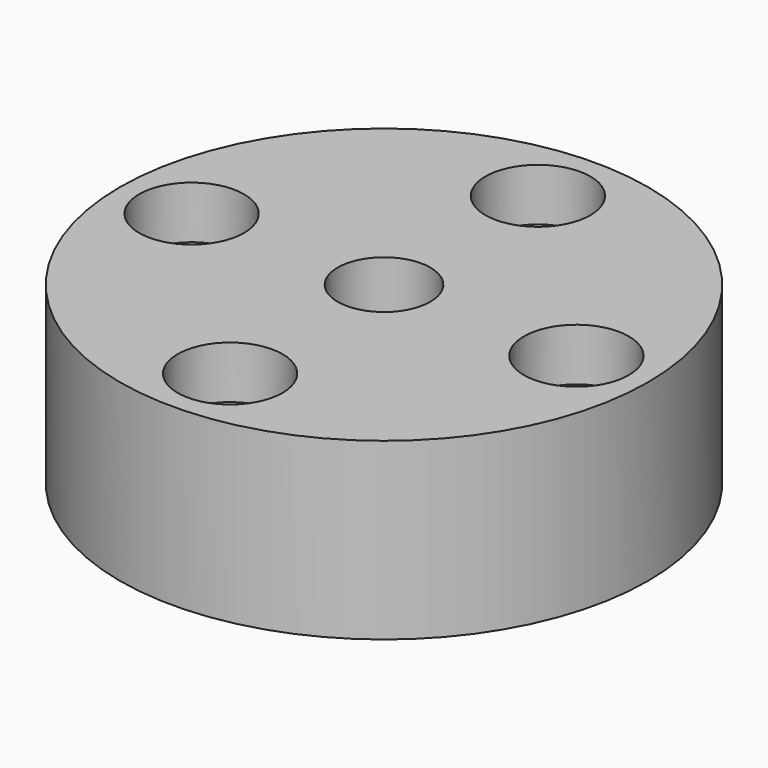
from build123d import *

# Parameters (mm, degrees)
CYLINDER672_R     = 2.65
CYLINDER672_DEPTH = 30
CYLINDER664_R     = 3
CYLINDER664_DEPTH = 3
CYLINDER661_R     = 3
CYLINDER661_DEPTH = 3
CYLINDER668_R     = 3
CYLINDER668_DEPTH = 3
CYLINDER666_R     = 3
CYLINDER666_DEPTH = 3
CYLINDER673_R     = 1.5
CYLINDER673_DEPTH = 30
CYLINDER658_R     = 1.5
CYLINDER658_DEPTH = 30
CYLINDER671_R     = 1.5
CYLINDER671_DEPTH = 30
CYLINDER667_R     = 1.5
CYLINDER667_DEPTH = 30
CYLINDER665_R     = 15.1
CYLINDER665_DEPTH = 10


with BuildPart() as obj1:
    # Cylinder672 → Cylinder672 (new body)
    with BuildSketch(Plane(origin=(0, 83, 232), x_dir=(1, 0, 0), z_dir=(0, 0, 1))):
        Circle(CYLINDER672_R)
    extrude(amount=CYLINDER672_DEPTH)


with BuildPart() as obj2:
    # Cylinder664 → Cylinder664 (new body)
    with BuildSketch(Plane(origin=(11, 83, 232), x_dir=(1, 0, 0), z_dir=(0, 0, 1))):
        Circle(CYLINDER664_R)
    extrude(amount=CYLINDER664_DEPTH)


with BuildPart() as obj3:
    # Cylinder661 → Cylinder661 (new body)
    with BuildSketch(Plane(origin=(0, 72, 232), x_dir=(1, 0, 0), z_dir=(0, 0, 1))):
        Circle(CYLINDER661_R)
    extrude(amount=CYLINDER661_DEPTH)


with BuildPart() as obj4:
    # Cylinder668 → Cylinder668 (new body)
    with BuildSketch(Plane(origin=(0, 94, 232), x_dir=(1, 0, 0), z_dir=(0, 0, 1))):
        Circle(CYLINDER668_R)
    extrude(amount=CYLINDER668_DEPTH)


with BuildPart() as compound362:
    # Cylinder666 → Cylinder666 (new body)
    with BuildSketch(Plane(origin=(-11, 83, 232), x_dir=(1, 0, 0), z_dir=(0, 0, 1))):
        Circle(CYLINDER666_R)
    extrude(amount=CYLINDER666_DEPTH)

    # Compound362: union obj2, obj3, obj4
    add(obj2.part)
    add(obj3.part)
    add(obj4.part)


with BuildPart() as compound362_1:
    # Compound362 placement: moved
    add(compound362.part.moved(Location((0, 0, 17))))


with BuildPart() as obj5:
    # Cylinder673 → Cylinder673 (new body)
    with BuildSketch(Plane(origin=(11, 83, 232), x_dir=(1, 0, 0), z_dir=(0, 0, 1))):
        Circle(CYLINDER673_R)
    extrude(amount=CYLINDER673_DEPTH)


with BuildPart() as obj6:
    # Cylinder658 → Cylinder658 (new body)
    with BuildSketch(Plane(origin=(0, 72, 232), x_dir=(1, 0, 0), z_dir=(0, 0, 1))):
        Circle(CYLINDER658_R)
    extrude(amount=CYLINDER658_DEPTH)


with BuildPart() as obj7:
    # Cylinder671 → Cylinder671 (new body)
    with BuildSketch(Plane(origin=(0, 94, 232), x_dir=(1, 0, 0), z_dir=(0, 0, 1))):
        Circle(CYLINDER671_R)
    extrude(amount=CYLINDER671_DEPTH)


with BuildPart() as compound361:
    # Cylinder667 → Cylinder667 (new body)
    with BuildSketch(Plane(origin=(-11, 83, 232), x_dir=(1, 0, 0), z_dir=(0, 0, 1))):
        Circle(CYLINDER667_R)
    extrude(amount=CYLINDER667_DEPTH)

    # Compound361: union obj5, obj6, obj7
    add(obj5.part)
    add(obj6.part)
    add(obj7.part)


with BuildPart() as cut267:
    # Cylinder665 → Cylinder665 (new body)
    with BuildSketch(Plane(origin=(0, 83, 242), x_dir=(1, 0, 0), z_dir=(0, 0, 1))):
        Circle(CYLINDER665_R)
    extrude(amount=CYLINDER665_DEPTH)

    # Cut269: cut Compound361
    add(compound361.part, mode=Mode.SUBTRACT)

    # Cut270: cut Compound362
    add(compound362_1.part, mode=Mode.SUBTRACT)

    # Cut267: cut obj1
    add(obj1.part, mode=Mode.SUBTRACT)


solid = cut267.part
